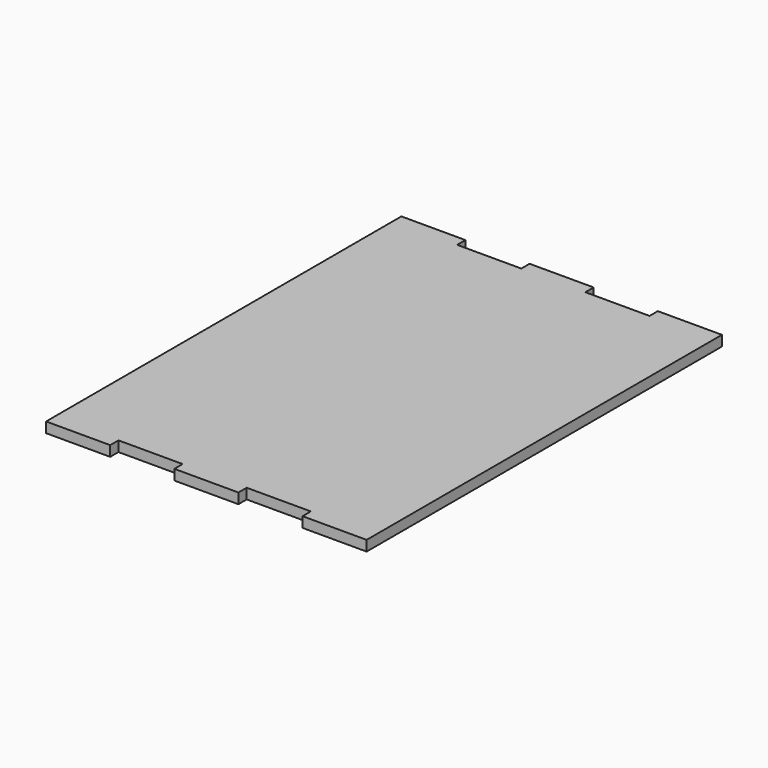
from build123d import *

# Parameters (mm, degrees)
F1_DEPTH = 3.175


with BuildPart() as f1:
    # F0 (on Top) → F1 (new body)
    with BuildSketch(Plane.XY):
        Polygon((49.2125, -68.175), (49.2125, -65), (49.2125, 65), (49.2125, 68.175), (29.5275, 68.175), (29.5275, 65), (9.8425, 65), (9.8425, 68.175), (-9.8425, 68.175), (-9.8425, 65), (-29.5275, 65), (-29.5275, 68.175), (-49.2125, 68.175), (-49.2125, 65), (-49.2125, -65), (-49.2125, -68.175), (-29.5275, -68.175), (-29.5275, -65), (-9.8425, -65), (-9.8425, -68.175), (9.8425, -68.175), (9.8425, -65), (29.5275, -65), (29.5275, -68.175), align=None)
    extrude(amount=F1_DEPTH)


solid = f1.part
